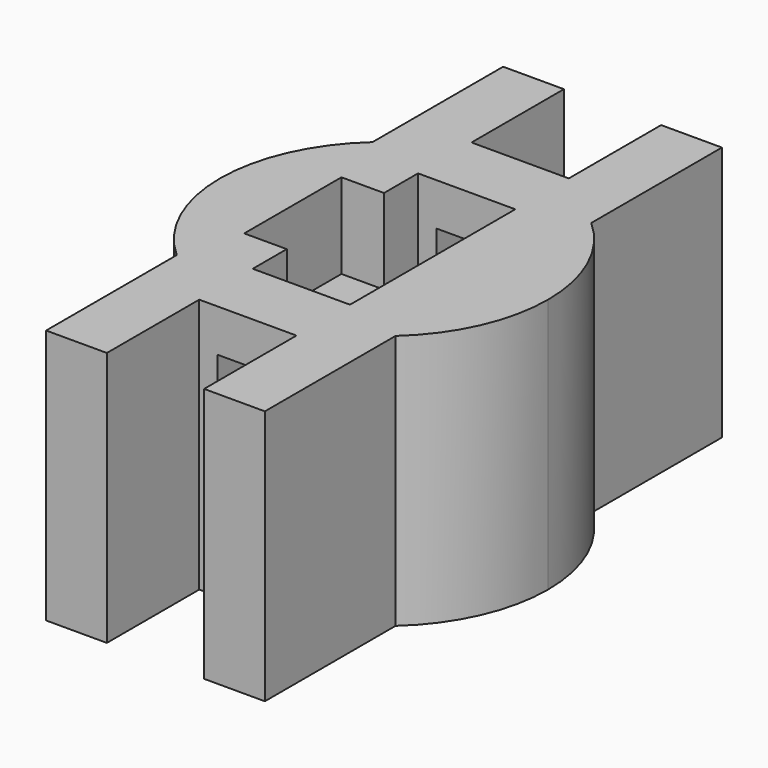
from build123d import *

# Parameters (mm, degrees)
F1_DEPTH = 21
F2_W     = 10
F2_H     = 28
F3_DEPTH = 75.001
F4_W     = 16
F4_H     = 34
F5_DEPTH = 42.001
F6_W     = 7
F6_H     = 20
F7_DEPTH = 14


with BuildPart() as f1:
    # F0 (on Top) → F1 (new body, symmetric)
    with BuildSketch(Plane.XY):
        with BuildLine():
            Line((-8, -28), (0, -28))
            Line((0, -28), (8, -28))
            Line((8, -28), (8, -47))
            Line((8, -47), (18, -47))
            Line((18, -47), (18, -20.124612))
            ThreePointArc((18, -20.124612), (24.647515, -11.022704), (27, 0))
            ThreePointArc((27, 0), (24.647515, 11.022704), (18, 20.124612))
            Line((18, 20.124612), (18, 47))
            Line((18, 47), (8, 47))
            Line((8, 47), (8, 28))
            Line((8, 28), (0, 28))
            Line((0, 28), (-8, 28))
            Line((-8, 28), (-8, 47))
            Line((-8, 47), (-18, 47))
            Line((-18, 47), (-18, 20.124612))
            ThreePointArc((-18, 20.124612), (-24.647515, 11.022704), (-27, 0))
            ThreePointArc((-27, 0), (-24.647515, -11.022704), (-18, -20.124612))
            Line((-18, -20.124612), (-18, -47))
            Line((-18, -47), (-8, -47))
            Line((-8, -47), (-8, -28))
        make_face()
    extrude(amount=F1_DEPTH, both=True)

    # F2 (on face) → F3 (cut, through all)
    with BuildSketch(Plane.XZ.offset(28)):
        Rectangle(F2_W, F2_H)
    extrude(amount=-F3_DEPTH, mode=Mode.SUBTRACT)

    # F4 (on face) → F5 (cut, through all)
    with BuildSketch(Plane.XY.offset(21)):
        Rectangle(F4_W, F4_H)
    extrude(amount=-F5_DEPTH, mode=Mode.SUBTRACT)

    # F6 (on face) → F7 (cut)
    with BuildSketch(Plane.XY.offset(21)):
        with Locations((-11.5, 0)):
            Rectangle(F6_W, F6_H)
    extrude(amount=-F7_DEPTH, mode=Mode.SUBTRACT)


solid = f1.part
